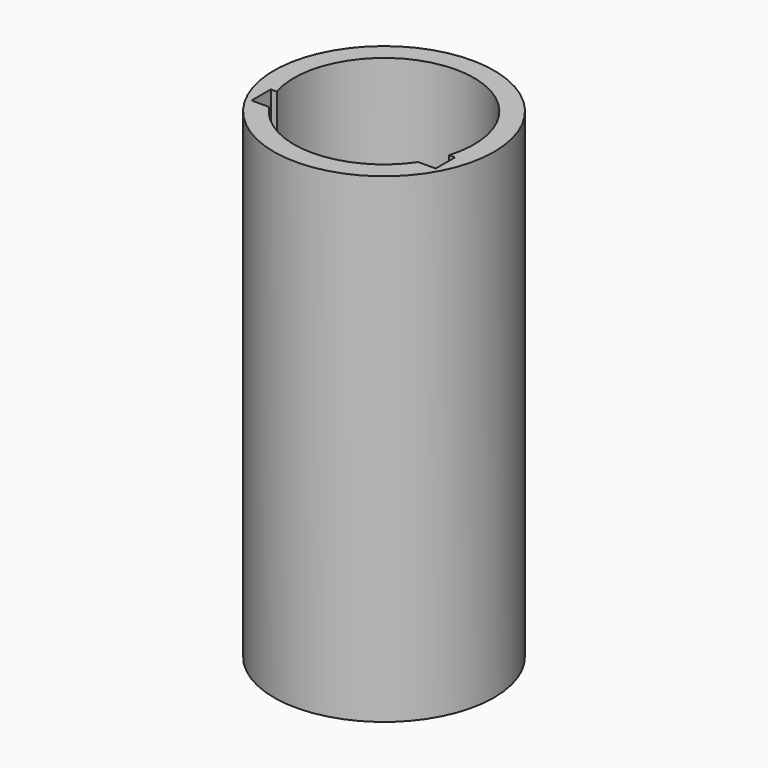
from build123d import *

# Parameters (mm, degrees)
F0_R     = 6.985
F1_DEPTH = 5.08
F2_R     = 6.985
F3_DEPTH = 25.4


with BuildPart() as f1:
    # F0 (on Top) → F1 (new body)
    with BuildSketch(Plane.XY):
        Circle(F0_R)
        with BuildLine():
            ThreePointArc((-2.50952, -2.08153), (-4.59105, 0), (-2.50952, 2.08153))
            Line((-2.50952, 2.08153), (2.50952, 2.08153))
            ThreePointArc((2.50952, 2.08153), (4.59105, 0), (2.50952, -2.08153))
            Line((2.50952, -2.08153), (-2.50952, -2.08153))
        make_face(mode=Mode.SUBTRACT)
    extrude(amount=F1_DEPTH)

    # F2 (on face) → F3 (join)
    with BuildSketch(Plane.XY.offset(5.08)):
        Circle(F2_R)
        with BuildLine():
            ThreePointArc((-5.463988, -1.67513), (0, 5.715), (5.463988, -1.67513))
            Line((5.463988, -1.67513), (5.842, -1.67513))
            Line((5.842, -1.67513), (5.842, -3.204126))
            Line((5.842, -3.204126), (4.732315, -3.204126))
            ThreePointArc((4.732315, -3.204126), (0, -5.715), (-4.732315, -3.204126))
            Line((-4.732315, -3.204126), (-5.842, -3.204126))
            Line((-5.842, -3.204126), (-5.842, -1.67513))
            Line((-5.842, -1.67513), (-5.463988, -1.67513))
        make_face(mode=Mode.SUBTRACT)
    extrude(amount=F3_DEPTH)


solid = f1.part
